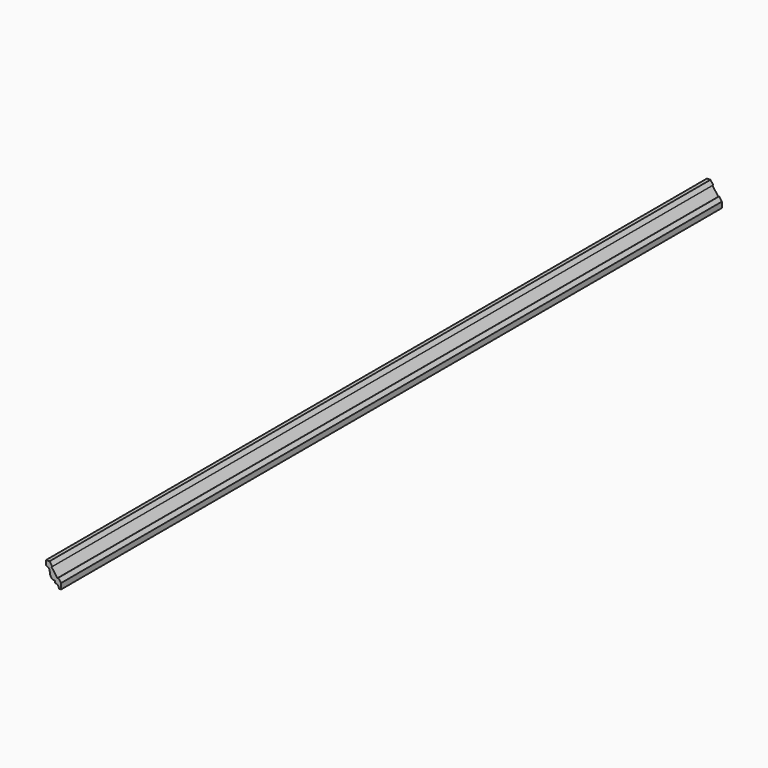
from build123d import *

# Parameters (mm, degrees)
F1_DEPTH = 2108.2


with BuildPart() as f1:
    # F0 (on Front) → F1 (new body)
    with BuildSketch(Plane.XZ):
        with BuildLine():
            ThreePointArc((-14.859, 9.525), (-8.1238079092, 6.7351920908), (-5.334, 0))
            Line((-5.334, 0), (0, 0))
            Line((0, 0), (0, 14.478))
            Line((0, 14.478), (-7.0534642899, 24.0155104094))
            Line((-7.0534642899, 24.0155104094), (-9.095662208, 22.5052032674))
            Line((-9.095662208, 22.5052032674), (-24.1987336282, 42.9271824486))
            Line((-24.1987336282, 42.9271824486), (-22.1565357101, 44.4374895906))
            Line((-22.1565357101, 44.4374895906), (-29.21, 53.975))
            Line((-29.21, 53.975), (-38.1, 53.975))
            Line((-38.1, 53.975), (-38.1, 41.656))
            add(Edge.make_bspline(
                [(-38.1, 41.656), (-28.1570851803, 39.6384932101), (-30.2785540843, 24.9129260063), (-23.0376143008, 14.3336839974), (-14.859, 14.605)],
                knots=[0, 0, 0, 0, 0.513981523, 1, 1, 1, 1], degree=3))
            Line((-14.859, 14.605), (-14.859, 9.525))
        make_face()
    extrude(amount=F1_DEPTH)


solid = f1.part
